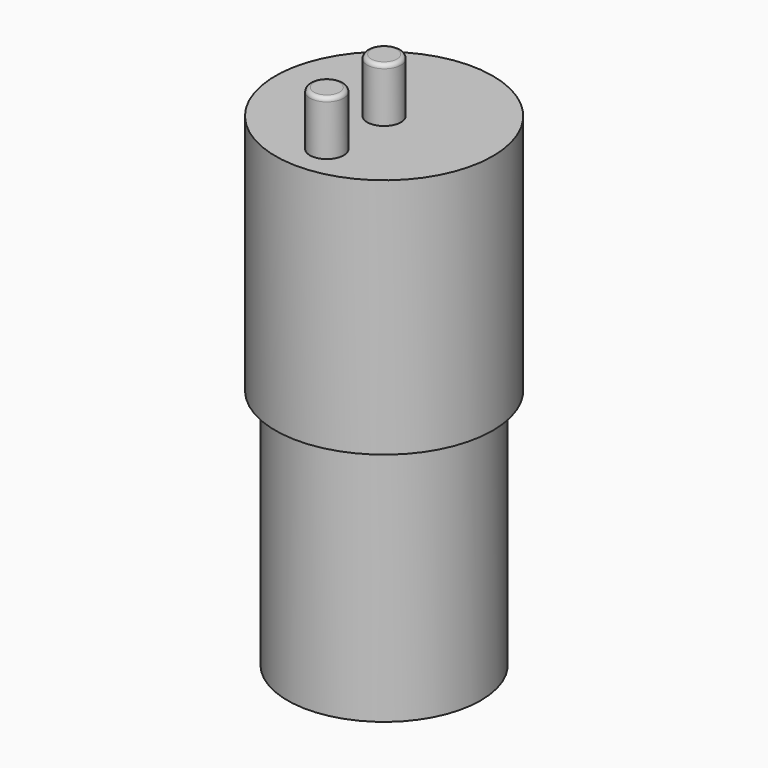
from build123d import *

# Parameters (mm, degrees)
SKETCH_R     = 13.5
PAD_DEPTH    = 30
SKETCH001_R  = 12
PAD001_DEPTH = 30
SKETCH002_R  = 2.1
PAD002_DEPTH = 6.75
FILLET_R     = 0.5
FILLET001_R  = 0.5


with BuildPart() as part:
    # Sketch → Pad (new body)
    with BuildSketch(Plane.XY):
        Circle(SKETCH_R)
    extrude(amount=PAD_DEPTH)

    # Sketch001 (on Face2 of Pad) → Pad001 (join)
    with BuildSketch(Plane(origin=(0, 0, 0), x_dir=(1, 0, 0), z_dir=(0, 0, -1))):
        Circle(SKETCH001_R)
    extrude(amount=PAD001_DEPTH)

    # Sketch002 (on Face3 of Pad001) → Pad002 (join)
    with BuildSketch(Plane.XY.offset(30)):
        Circle(SKETCH002_R)
        with Locations((0, -8.9)):
            Circle(SKETCH002_R)
    extrude(amount=PAD002_DEPTH)

    # Fillet
    fillet_edges = [part.edges().sort_by_distance(p)[0] for p in [
        (-2.1, 0, 36.75),
    ]]
    fillet(fillet_edges, radius=FILLET_R)

    # Fillet001
    fillet001_edges = [part.edges().sort_by_distance(p)[0] for p in [
        (-2.1, -8.9, 36.75),
    ]]
    fillet(fillet001_edges, radius=FILLET001_R)


solid = part.part
